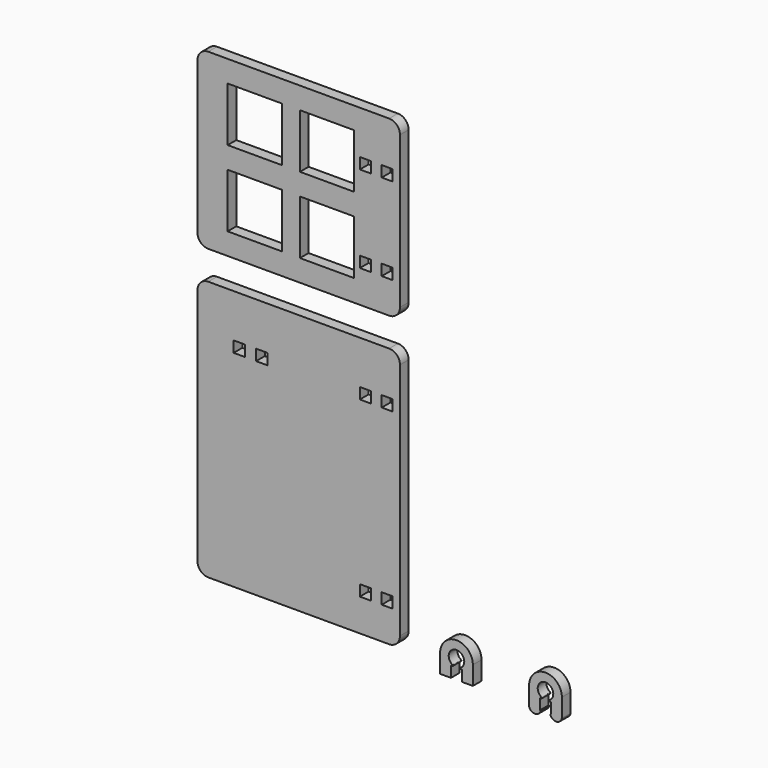
from build123d import *

# Parameters (mm, degrees)
F1_DEPTH = 3
F2_W     = 56
F2_H     = 48
F2_H_2   = 72
F3_DEPTH = 3
F4_W     = 3.04
F4_H     = 3.04
F5_DEPTH = 3.001
F4_W_2   = 3.2
F6_DEPTH = 25
F7_W     = 15
F7_H     = 15
F8_DEPTH = 3.001
F9_R     = 3


with BuildPart() as f1:
    # F0 (on Front) → F1 (new body)
    with BuildSketch(Plane.XZ):
        with BuildLine():
            ThreePointArc((-1.080397, 0.666172), (0.03848, 4.674656), (1.013178, 0.628695))
            ThreePointArc((1.013178, 0.628695), (0.950886, 0.482418), (1.068098, 0.375))
            Line((1.068098, 0.375), (1.1027, 0.375))
            Line((1.1027, 0.375), (1.525, 0.375))
            Line((1.525, 0.375), (1.525, -2.625))
            Line((1.525, -2.625), (4.525, -2.625))
            Line((4.525, -2.625), (4.525, 2.525))
            ThreePointArc((4.525, 2.525), (0, 7.05), (-4.525, 2.525))
            Line((-4.525, 2.525), (-4.525, -2.625))
            Line((-4.525, -2.625), (-1.525, -2.625))
            Line((-1.525, -2.625), (-1.525, 0.375))
            Line((-1.525, 0.375), (-1.084463, 0.375))
            ThreePointArc((-1.084463, 0.375), (-0.995149, 0.515884), (-1.074369, 0.662681))
            ThreePointArc((-1.074369, 0.662681), (-1.077384, 0.664424), (-1.080397, 0.666172))
        make_face()
        with BuildLine():
            ThreePointArc((23.533366, 0.785405), (24.652243, 4.793889), (25.626941, 0.747928))
            ThreePointArc((25.626941, 0.747928), (25.564649, 0.601651), (25.681861, 0.494233))
            Line((25.681861, 0.494233), (25.716464, 0.494233))
            Line((25.716464, 0.494233), (26.138763, 0.494233))
            Line((26.138763, 0.494233), (26.138763, -2.505767))
            Line((26.138763, -2.505767), (25.938763, -2.505767))
            ThreePointArc((25.938763, -2.505767), (27.538763, -3.817453), (29.138763, -2.505767))
            Line((29.138763, -2.505767), (29.138763, 2.644233))
            ThreePointArc((29.138763, 2.644233), (24.613763, 7.169233), (20.088763, 2.644233))
            Line((20.088763, 2.644233), (20.088763, -2.505767))
            ThreePointArc((20.088763, -2.505767), (21.688763, -3.817453), (23.288763, -2.505767))
            Line((23.288763, -2.505767), (23.088763, -2.505767))
            Line((23.088763, -2.505767), (23.088763, 0.494233))
            Line((23.088763, 0.494233), (23.5293, 0.494233))
            ThreePointArc((23.5293, 0.494233), (23.618614, 0.635117), (23.539394, 0.781914))
            ThreePointArc((23.539394, 0.781914), (23.536379, 0.783657), (23.533366, 0.785405))
        make_face()
    extrude(amount=F1_DEPTH)


with BuildPart() as f3:
    # F2 (on Front) → F3 (new body)
    with BuildSketch(Plane.XZ):
        with Locations((-43.634039, 104)):
            Rectangle(F2_W, F2_H)
        with Locations((-43.634039, 36)):
            Rectangle(F2_W, F2_H_2)
    extrude(amount=F3_DEPTH)

    # F4 (on face) → F5 (cut, through all)
    with BuildSketch(Plane.XZ.offset(3)):
        with Locations((-25.204039, 114.48)):
            Rectangle(F4_W, F4_H)
        with Locations((-19.154039, 114.48)):
            Rectangle(F4_W, F4_H)
        with Locations((-25.204039, 90.48)):
            Rectangle(F4_W, F4_H)
        with Locations((-19.154039, 90.48)):
            Rectangle(F4_W, F4_H)
        with Locations((-25.204039, 58.48)):
            Rectangle(F4_W, F4_H)
        with Locations((-19.154039, 58.48)):
            Rectangle(F4_W, F4_H)
        with Locations((-25.204039, 10.48)):
            Rectangle(F4_W, F4_H)
        with Locations((-19.154039, 10.48)):
            Rectangle(F4_W, F4_H)
    extrude(amount=-F5_DEPTH, mode=Mode.SUBTRACT)

    # F4 (on face) → F6 (cut)
    with BuildSketch(Plane.XZ.offset(3)):
        with Locations((-25.204039, 10.48)):
            Rectangle(F4_W, F4_H)
        with Locations((-19.154039, 10.48)):
            Rectangle(F4_W, F4_H)
        with Locations((-25.204039, 58.48)):
            Rectangle(F4_W, F4_H)
        with Locations((-19.154039, 58.48)):
            Rectangle(F4_W, F4_H)
        with Locations((-25.204039, 90.48)):
            Rectangle(F4_W, F4_H)
        with Locations((-19.154039, 90.48)):
            Rectangle(F4_W, F4_H)
        with Locations((-25.204039, 114.48)):
            Rectangle(F4_W, F4_H)
        with Locations((-19.154039, 114.48)):
            Rectangle(F4_W, F4_H)
        with Locations((-60.034039, 58.48)):
            Rectangle(F4_W_2, F4_H)
        with Locations((-53.824039, 58.48)):
            Rectangle(F4_W_2, F4_H)
    extrude(amount=-F6_DEPTH, mode=Mode.SUBTRACT)

    # F7 (on face) → F8 (cut, through all)
    with BuildSketch(Plane.XZ.offset(3)):
        with Locations((-55.797357, 114.5)):
            Rectangle(F7_W, F7_H)
        with Locations((-35.797357, 114.5)):
            Rectangle(F7_W, F7_H)
        with Locations((-35.797357, 93.5)):
            Rectangle(F7_W, F7_H)
        with Locations((-55.797357, 93.5)):
            Rectangle(F7_W, F7_H)
    extrude(amount=-F8_DEPTH, mode=Mode.SUBTRACT)

    # F9
    f9_edges = [f3.edges().sort_by_distance(p)[0] for p in [
        (-71.634039, -1.5, 128),
        (-71.634039, -1.5, 72),
        (-15.634039, -1.5, 72),
        (-71.634039, -1.5, 80),
        (-15.634039, -1.5, 80),
        (-15.634039, -1.5, 128),
        (-71.634039, -1.5, 0),
        (-15.634039, -1.5, 0),
    ]]
    fillet(f9_edges, radius=F9_R)


solid = Compound([f1.part, f3.part])
